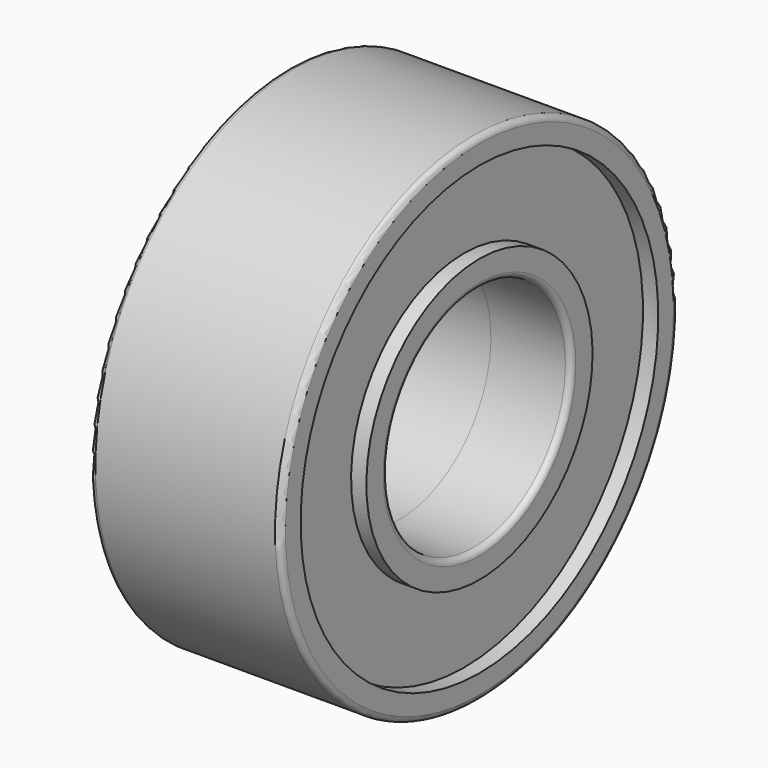
from build123d import *


with BuildPart() as f1:
    # F0 (on Front) → F1 (revolve)
    with BuildSketch(Plane.XZ):
        with BuildLine():
            Line((4.85, 6.5), (0.15, 6.5))
            ThreePointArc((0.15, 6.5), (0.043934, 6.456066), (0, 6.35))
            Line((0, 6.35), (0, 5.85))
            Line((0, 5.85), (0.4, 5.85))
            Line((0.4, 5.85), (0.4, 3.7))
            Line((0.4, 3.7), (0, 3.7))
            Line((0, 3.7), (0, 3.15))
            ThreePointArc((0, 3.15), (0.043934, 3.043934), (0.15, 3))
            Line((0.15, 3), (4.85, 3))
            ThreePointArc((4.85, 3), (4.956066, 3.043934), (5, 3.15))
            Line((5, 3.15), (5, 3.7))
            Line((5, 3.7), (4.6, 3.7))
            Line((4.6, 3.7), (4.6, 5.85))
            Line((4.6, 5.85), (5, 5.85))
            Line((5, 5.85), (5, 6.35))
            ThreePointArc((5, 6.35), (4.956066, 6.456066), (4.85, 6.5))
        make_face()
    revolve(axis=Axis((3.421947, 0, 0), (1, 0, 0)))


with BuildPart() as f3:
    # F2 (on Front) → F3 (revolve)
    with BuildSketch(Plane.XZ):
        with BuildLine():
            Line((2.9, 5), (0.1, 5))
            ThreePointArc((0.1, 5), (0.029289, 4.970711), (0, 4.9))
            Line((0, 4.9), (0, 4.655))
            Line((0, 4.655), (0.4, 4.655))
            Line((0.4, 4.655), (0.4, 3.5))
            Line((0.4, 3.5), (0, 3.5))
            Line((0, 3.5), (0, 3.1))
            ThreePointArc((0, 3.1), (0.029289, 3.029289), (0.1, 3))
            Line((0.1, 3), (2.9, 3))
            ThreePointArc((2.9, 3), (2.970711, 3.029289), (3, 3.1))
            Line((3, 3.1), (3, 3.5))
            Line((3, 3.5), (2.6, 3.5))
            Line((2.6, 3.5), (2.6, 4.655))
            Line((2.6, 4.655), (3, 4.655))
            Line((3, 4.655), (3, 4.9))
            ThreePointArc((3, 4.9), (2.970711, 4.970711), (2.9, 5))
        make_face()
    revolve(axis=Axis((-66.159006, 0, 0), (1, 0, 0)))


solid = Compound([f1.part, f3.part])
